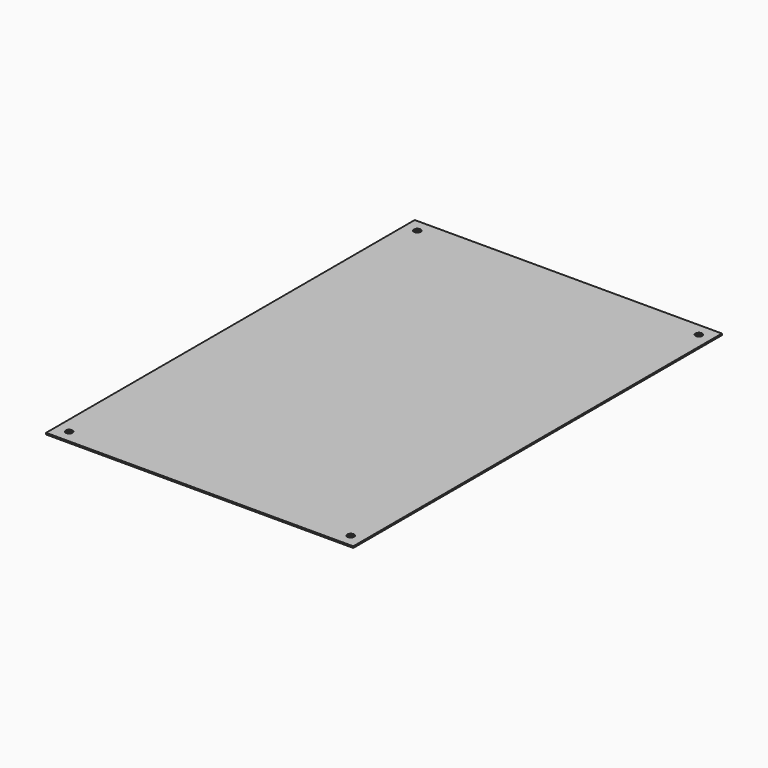
from build123d import *

# Parameters (mm, degrees)
SKETCH_W  = 304.8
SKETCH_H  = 457.2
SKETCH_R  = 3.3
PAD_DEPTH = 1.519


with BuildPart() as part:
    # Sketch → Pad (new body)
    with BuildSketch(Plane.XY):
        Rectangle(SKETCH_W, SKETCH_H)
        with Locations((139.7, 215.9)):
            Circle(SKETCH_R, mode=Mode.SUBTRACT)
        with Locations((-139.7, 215.9)):
            Circle(SKETCH_R, mode=Mode.SUBTRACT)
        with Locations((-139.7, -215.9)):
            Circle(SKETCH_R, mode=Mode.SUBTRACT)
        with Locations((139.7, -215.9)):
            Circle(SKETCH_R, mode=Mode.SUBTRACT)
    extrude(amount=PAD_DEPTH)


solid = part.part
